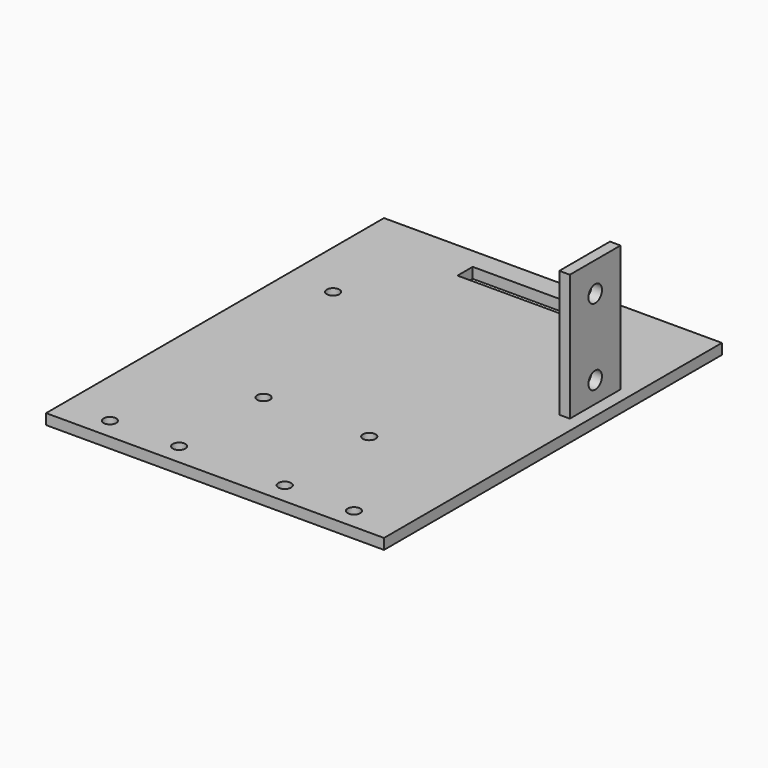
from build123d import *

# Parameters (mm, degrees)
SKETCH001_W   = 80
SKETCH001_H   = 100
SKETCH001_R   = 1.5
SKETCH001_W_2 = 30
SKETCH001_H_2 = 4.5
PAD_DEPTH     = 2.5
SKETCH_W      = 15
SKETCH_H      = 30
SKETCH_R      = 2
PAD001_DEPTH  = 2.5


with BuildPart() as base:
    # Sketch001 → Pad (new body)
    with BuildSketch(Plane.XY):
        Rectangle(SKETCH001_W, SKETCH001_H)
        with Locations((-28.8925, 21.04)):
            Circle(SKETCH001_R, mode=Mode.SUBTRACT)
        with Locations((-28.8925, -45)):
            Circle(SKETCH001_R, mode=Mode.SUBTRACT)
        with Locations((28.8925, -45)):
            Circle(SKETCH001_R, mode=Mode.SUBTRACT)
        with Locations((28.8925, 21.04)):
            Circle(SKETCH001_R, mode=Mode.SUBTRACT)
        with Locations((-12.5, -20)):
            Circle(SKETCH001_R, mode=Mode.SUBTRACT)
        with Locations((-12.5, -45)):
            Circle(SKETCH001_R, mode=Mode.SUBTRACT)
        with Locations((12.5, -20)):
            Circle(SKETCH001_R, mode=Mode.SUBTRACT)
        with Locations((12.5, -45)):
            Circle(SKETCH001_R, mode=Mode.SUBTRACT)
        with Locations((0, 42.75)):
            Rectangle(SKETCH001_W_2, SKETCH001_H_2, mode=Mode.SUBTRACT)
    extrude(amount=PAD_DEPTH)


with BuildPart() as motorholder:
    # Sketch → Pad001 (new body)
    with BuildSketch(Plane.YZ):
        with Locations((12.5, 20)):
            Rectangle(SKETCH_W, SKETCH_H)
        with Locations((12.5, 28)):
            Circle(SKETCH_R, mode=Mode.SUBTRACT)
        with Locations((12.5, 10)):
            Circle(SKETCH_R, mode=Mode.SUBTRACT)
    extrude(amount=PAD001_DEPTH)


with BuildPart() as motorholder_1:
    # Body001 placement: moved
    add(motorholder.part.moved(Location((37.5, 0, 0))))


solid = Compound([base.part, motorholder_1.part])
